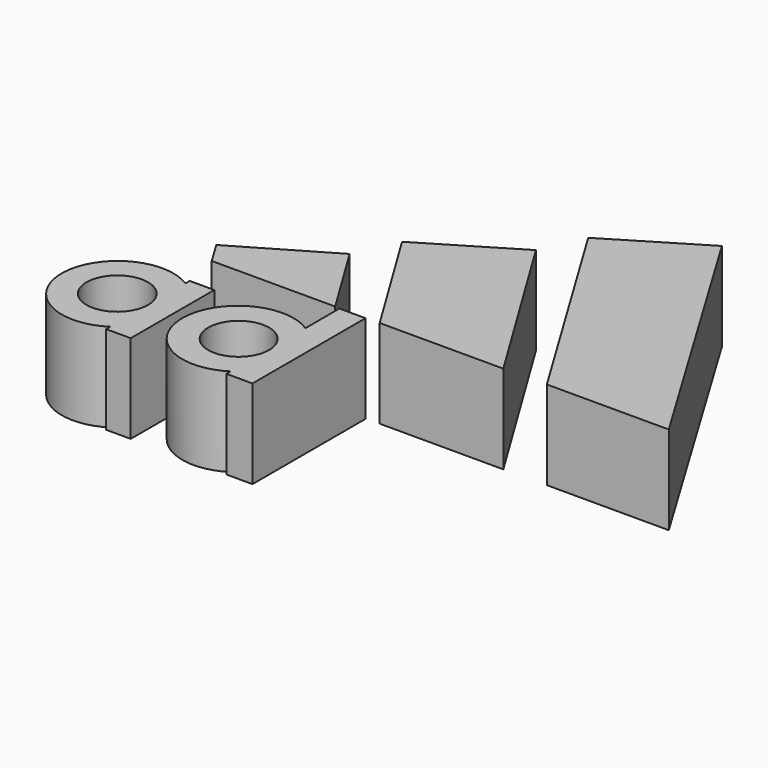
from build123d import *

# Parameters (mm, degrees)
F0_R     = 8.817879
F0_R_2   = 8.719755
F1_DEPTH = 25.4


with BuildPart() as f1:
    # F0 (on Top) → F1 (new body)
    with BuildSketch(Plane.XY):
        Polygon((63.720725, -20.110851), (17.45989, 56.749374), (-8.36722, 41.1493), (28.789517, -20.110851), align=None)
        Polygon((-31.761169, -20.216875), (-45.156837, 1.709113), (-71.163848, -13.543657), (-67.126483, -20.216875), align=None)
        Polygon((16.406185, -20.216875), (-13.777783, 29.188152), (-39.685947, 13.631486), (-19.006314, -20.216875), align=None)
        with BuildLine():
            Line((-64.933681, -32.321095), (-65.076143, -32.321095))
            ThreePointArc((-65.076143, -32.321095), (-89.578919, -45.94057), (-64.933681, -59.300523))
            Line((-64.933681, -59.300523), (-64.933681, -60.75903))
            Line((-64.933681, -60.75903), (-57.893954, -60.75903))
            Line((-57.893954, -60.75903), (-57.893954, -30.848039))
            Line((-57.893954, -30.848039), (-64.933681, -30.848039))
            Line((-64.933681, -30.848039), (-64.933681, -32.321095))
        make_face()
        with Locations((-73.74775, -45.760293)):
            Circle(F0_R, mode=Mode.SUBTRACT)
        with BuildLine():
            Line((-30.430358, -20.373601), (-30.395195, -32.552712))
            ThreePointArc((-30.395195, -32.552712), (-54.966896, -45.928445), (-30.430358, -59.368573))
            Line((-30.430358, -59.368573), (-30.430358, -60.867589))
            Line((-30.430358, -60.867589), (-22.936562, -60.867589))
            Line((-22.936562, -60.867589), (-22.936562, -20.373601))
            Line((-22.936562, -20.373601), (-30.430358, -20.373601))
        make_face()
        with Locations((-38.856147, -45.915331)):
            Circle(F0_R_2, mode=Mode.SUBTRACT)
    extrude(amount=F1_DEPTH)


solid = f1.part
